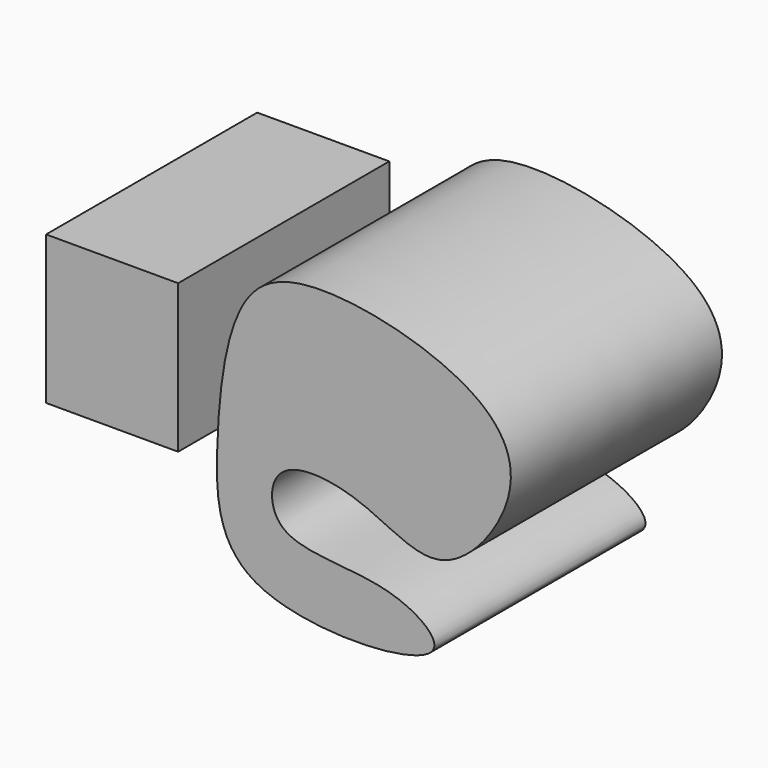
from build123d import *

# Parameters (mm, degrees)
F1_DEPTH = 87.21624
F0_W     = 43.6499640346
F0_H     = 49.0424158052


with BuildPart() as f1:
    # F0 (on Front) → F1 (new body)
    with BuildSketch(Plane.XZ):
        with BuildLine():
            add(Edge.make_bspline(
                [(-57.9718276858, 58.1475161016), (-63.1056143856, 47.4987543725), (-66.5270718215, 16.1441555944), (-64.5479698472, -29.6132228934), (21.8715070282, -25.8727227978), (-9.7236907413, -2.4811195452), (-47.9851184687, -7.4632404928), (-48.4826254877, 20.9165381803), (-16.2707067619, 18.051524057), (9.2685086371, -2.0711475784), (37.6909785497, 34.5012898107), (23.5033558817, 64.3920179204), (-39.1797693263, 78.7566901554), (-54.0655806049, 66.2500526605), (-57.9718276858, 58.1475161016)],
                knots=[0, 0, 0, 0, 0.0951656614, 0.1848540037, 0.2951612823, 0.3581305094, 0.4458788217, 0.5023856551, 0.5766823321, 0.6542799687, 0.7399010913, 0.8160185617, 0.9275893977, 1, 1, 1, 1], degree=3))
        make_face()
    extrude(amount=F1_DEPTH)


with BuildPart() as f1b:
    # F0 (on Front) → F1, piece 2 (new body)
    with BuildSketch(Plane.XZ):
        with Locations((-100.1283489168, 35.070953425)):
            Rectangle(F0_W, F0_H)
    extrude(amount=F1_DEPTH)


solid = Compound([f1.part, f1b.part])
